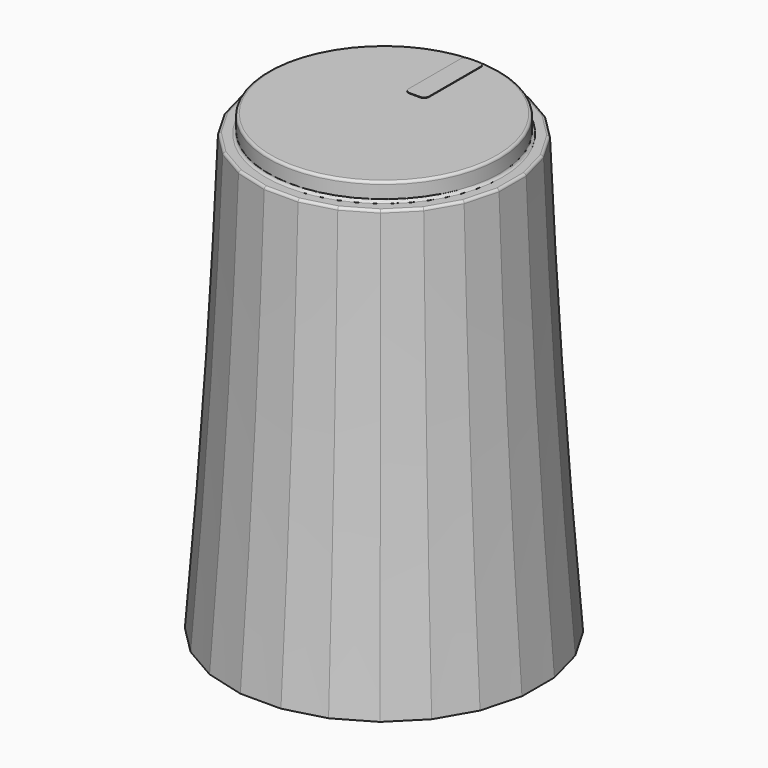
from build123d import *

# Parameters (mm, degrees)
SKETCH003_R     = 4.5
PAD_DEPTH       = 0.7
SKETCH005_R     = 5
POCKET_DEPTH    = 1
SKETCH006_R     = 4.65
POCKET001_DEPTH = 1
POCKET002_DEPTH = 8
CHAMFER_SIZE    = 1.4
CHAMFER001_SIZE = 0.3
FILLET_R        = 0.1
PAD001_DEPTH    = 0.02


with BuildPart() as body:
    # Sketch → AdditiveLoft section 0
    with BuildSketch(Plane.XY):
        Polygon((-0.789915, 6), (-2.315914, 5.59111), (-3.684086, 4.801195), (-4.801195, 3.684086), (-5.59111, 2.315914), (-6, 0.789915), (-6, -0.789915), (-5.59111, -2.315914), (-4.801195, -3.684086), (-3.684086, -4.801195), (-2.315914, -5.59111), (-0.789915, -6), (0.789915, -6), (2.315914, -5.59111), (3.684086, -4.801195), (4.801195, -3.684086), (5.59111, -2.315914), (6, -0.789915), (6, 0.789915), (5.59111, 2.315914), (4.801195, 3.684086), (3.684086, 4.801195), (2.315914, 5.59111), (0.789915, 6), align=None)
    # Sketch001 → AdditiveLoft section 1
    with BuildSketch(Plane.XY.offset(7)):
        Polygon((-0.724089, 5.5), (-2.122921, 5.125184), (-3.377079, 4.401095), (-4.401095, 3.377079), (-5.125184, 2.122921), (-5.5, 0.724089), (-5.5, -0.724089), (-5.125184, -2.122921), (-4.401095, -3.377079), (-3.377079, -4.401095), (-2.122921, -5.125184), (-0.724089, -5.5), (0.724089, -5.5), (2.122921, -5.125184), (3.377079, -4.401095), (4.401095, -3.377079), (5.125184, -2.122921), (5.5, -0.724089), (5.5, 0.724089), (5.125184, 2.122921), (4.401095, 3.377079), (3.377079, 4.401095), (2.122921, 5.125184), (0.724089, 5.5), align=None)
    # Sketch002 → AdditiveLoft section 2
    with BuildSketch(Plane.XY.offset(17)):
        Polygon((-4.659258, 1.929928), (-5, 0.658262), (-5, -0.658262), (-4.659258, -1.929928), (-4.000996, -3.070072), (-3.070072, -4.000996), (-1.929928, -4.659258), (-0.658262, -5), (0.658262, -5), (1.929928, -4.659258), (3.070072, -4.000996), (4.000996, -3.070072), (4.659258, -1.929928), (5, -0.658262), (5, 0.658262), (4.659258, 1.929928), (4.000996, 3.070072), (3.070072, 4.000996), (1.929928, 4.659258), (0.658262, 5), (-0.658262, 5), (-1.929928, 4.659258), (-3.070072, 4.000996), (-4.000996, 3.070072), align=None)
    loft()

    # Sketch003 (on Face3 of AdditiveLoft) → Pad (new body)
    with BuildSketch(Plane.XY.offset(17)):
        Circle(SKETCH003_R)
    extrude(amount=PAD_DEPTH)

    # Sketch005 (on Face1 of Pad) → Pocket (cut)
    with BuildSketch(Plane(origin=(0, 0, 0), x_dir=(1, 0, 0), z_dir=(0, 0, -1))):
        Circle(SKETCH005_R)
    extrude(amount=-POCKET_DEPTH, mode=Mode.SUBTRACT)

    # Sketch006 (on Face28 of Pocket) → Pocket001 (cut)
    with BuildSketch(Plane(origin=(0, 0, 1), x_dir=(1, 0, 0), z_dir=(0, 0, -1))):
        Circle(SKETCH006_R)
    extrude(amount=-POCKET001_DEPTH, mode=Mode.SUBTRACT)

    # Sketch007 (on Face32 of Pocket001) → Pocket002 (cut)
    with BuildSketch(Plane(origin=(0, 0, 2), x_dir=(1, 0, 0), z_dir=(0, 0, -1))):
        with BuildLine():
            ThreePointArc((-1.741757, 2.442598), (0, -3), (1.741757, 2.442598))
            Line((-1.741757, 2.442598), (1.741757, 2.442598))
        make_face()
    extrude(amount=-POCKET002_DEPTH, mode=Mode.SUBTRACT)

    # Chamfer
    chamfer_edges = [body.edges().sort_by_distance(p)[0] for p in [
        (0, 3, 2),
        (0, -2.442598, 2),
    ]]
    chamfer(chamfer_edges, length=CHAMFER_SIZE)

    # Chamfer001
    chamfer001_edges = [body.edges().sort_by_distance(p)[0] for p in [
        (-4.65, 0, 1),
    ]]
    chamfer(chamfer001_edges, length=CHAMFER001_SIZE)

    # Fillet
    fillet_edges = [body.edges().sort_by_distance(p)[0] for p in [
        (-4.5, 0, 17.7),
        (-4.829629, 1.294095, 17),
        (-4.330127, 2.5, 17),
        (-5, 0, 17),
        (-3.535534, 3.535534, 17),
        (-4.829629, -1.294095, 17),
        (-2.5, 4.330127, 17),
        (-4.330127, -2.5, 17),
        (-1.294095, 4.829629, 17),
        (-3.535534, -3.535534, 17),
        (0, 5, 17),
        (-2.5, -4.330127, 17),
        (1.294095, 4.829629, 17),
        (-1.294095, -4.829629, 17),
        (2.5, 4.330127, 17),
        (0, -5, 17),
        (3.535534, 3.535534, 17),
        (1.294095, -4.829629, 17),
        (4.330127, 2.5, 17),
        (2.5, -4.330127, 17),
        (4.829629, 1.294095, 17),
        (3.535534, -3.535534, 17),
        (5, 0, 17),
        (4.330127, -2.5, 17),
        (4.829629, -1.294095, 17),
        (-4.5, 0, 17),
    ]]
    fillet(fillet_edges, radius=FILLET_R)


with BuildPart() as indicator:
    # Sketch004 → Pad001 (new body)
    with BuildSketch(Plane.XY.offset(17.7)):
        with BuildLine():
            Line((-0.2, 1.5), (0.2, 1.5))
            ThreePointArc((0.2, 1.5), (0.341421, 1.558579), (0.4, 1.7))
            Line((0.4, 1.7), (0.4, 4.2))
            ThreePointArc((0.4, 4.2), (0.341421, 4.341421), (0.2, 4.4))
            Line((0.2, 4.4), (-0.2, 4.4))
            ThreePointArc((-0.2, 4.4), (-0.341421, 4.341421), (-0.4, 4.2))
            Line((-0.4, 4.2), (-0.4, 1.7))
            ThreePointArc((-0.4, 1.7), (-0.341421, 1.558579), (-0.2, 1.5))
        make_face()
    extrude(amount=PAD001_DEPTH)


solid = Compound([body.part, indicator.part])
